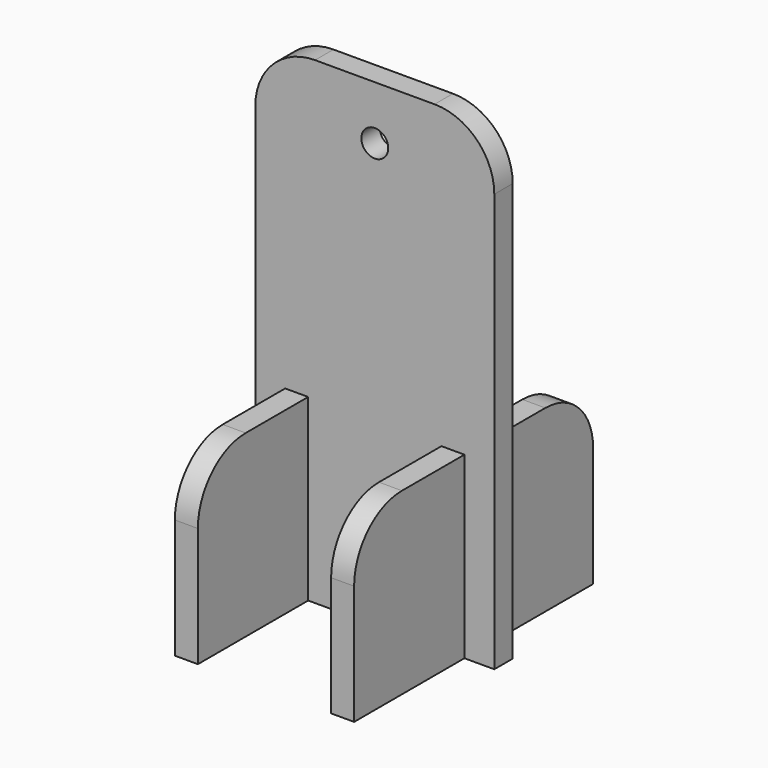
from build123d import *

# Parameters (mm, degrees)
F0_R     = 2.25
F1_DEPTH = 1.925
F5_DEPTH = 3.85
F6_DEPTH = 3.85


with BuildPart() as f1:
    # F0 (on Front) → F1 (new body, symmetric)
    with BuildSketch(Plane.XZ):
        with BuildLine():
            Line((15, -40), (20, -40))
            Line((20, -40), (20, 30))
            ThreePointArc((20, 30), (17.071068, 37.071068), (10, 40))
            Line((10, 40), (-10, 40))
            ThreePointArc((-10, 40), (-17.071068, 37.071068), (-20, 30))
            Line((-20, 30), (-20, -40))
            Line((-20, -40), (-15, -40))
            Line((-15, -40), (-15, -25))
            Line((-15, -25), (-11.15, -25))
            Line((-11.15, -25), (-11.15, -40))
            Line((-11.15, -40), (11.15, -40))
            Line((11.15, -40), (11.15, -25))
            Line((11.15, -25), (15, -25))
            Line((15, -25), (15, -40))
        make_face()
        with Locations((0, 31)):
            Circle(F0_R, mode=Mode.SUBTRACT)
    extrude(amount=F1_DEPTH, both=True)


with BuildPart() as f5:
    # F3 (on face) → F5 (new body, through all)
    with BuildSketch(Plane(origin=(-11.15, 0, 0), x_dir=(0, -1, 0), z_dir=(-1, 0, 0))):
        with BuildLine():
            Line((-25, -20), (-25, -40))
            Line((-25, -40), (-1.925, -40))
            Line((-1.925, -40), (1.925, -40))
            Line((1.925, -40), (25, -40))
            Line((25, -40), (25, -20))
            ThreePointArc((25, -20), (22.071068, -12.928932), (15, -10))
            Line((15, -10), (1.925, -10))
            Line((1.925, -10), (1.925, -25))
            Line((1.925, -25), (-1.925, -25))
            Line((-1.925, -25), (-1.925, -10))
            Line((-1.925, -10), (-15, -10))
            ThreePointArc((-15, -10), (-22.071068, -12.928932), (-25, -20))
        make_face()
    extrude(amount=F5_DEPTH)


with BuildPart() as f6:
    # F4 (on face) → F6 (new body, through all)
    with BuildSketch(Plane.YZ.offset(11.15)):
        with BuildLine():
            Line((1.925, -40), (25, -40))
            Line((25, -40), (25, -20))
            ThreePointArc((25, -20), (22.071068, -12.928932), (15, -10))
            Line((15, -10), (1.925, -10))
            Line((1.925, -10), (1.925, -25))
            Line((1.925, -25), (-1.925, -25))
            Line((-1.925, -25), (-1.925, -10))
            Line((-1.925, -10), (-15, -10))
            ThreePointArc((-15, -10), (-22.071068, -12.928932), (-25, -20))
            Line((-25, -20), (-25, -40))
            Line((-25, -40), (-1.925, -40))
            Line((-1.925, -40), (1.925, -40))
        make_face()
    extrude(amount=F6_DEPTH)


solid = Compound([f1.part, f5.part, f6.part])
